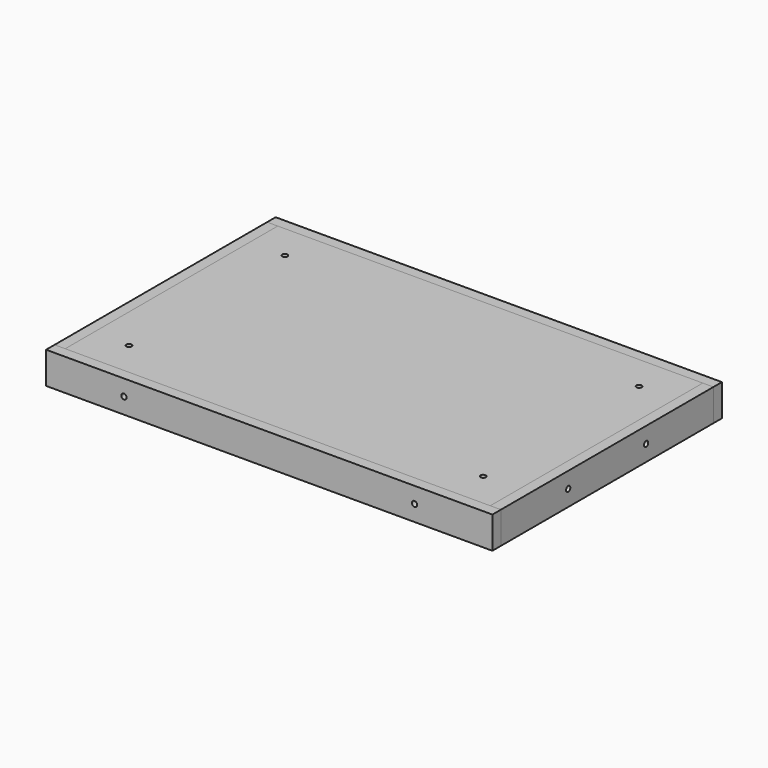
from build123d import *

# Parameters (mm, degrees)
F25_W     = 240
F25_H     = 150
F0_DEPTH  = 6
F1_DEPTH  = 6
F3_DEPTH  = 6
F7_W      = 240
F7_H      = 150
F8_DEPTH  = 6
F10_D     = 8
F11_W     = 252
F11_H     = 18
F12_DEPTH = 6
F14_D     = 3
F17_W     = 150
F17_H     = 18
F18_DEPTH = 6
F20_D     = 3
F24_D     = 3
F24_2_D   = 3
F24_3_D   = 3


with BuildPart() as f0:
    # F25 (on Top) → F0 (new body)
    with BuildSketch(Plane.XY):
        Rectangle(F25_W, F25_H)
    extrude(amount=F0_DEPTH)


with BuildPart() as f1:
    # F1 (new): a face of the model
    f1_faces = [f0.part.faces().sort_by_distance(p)[0] for p in [
        (0, 0, 0),
    ]]
    extrude(f1_faces, amount=F1_DEPTH)

    # F5: F3, F3b, F4_2, F4_1 across plane


with BuildPart() as f3:
    # F2 (on face) → F3 (new body, through all)
    with BuildSketch(Plane.XY):
        Polygon((82, -75), (83.5, -75), (83.5, -69), (84.85, -69), (84.85, -66), (83.5, -66), (83.5, -61), (82, -61), (80.5, -61), (80.5, -66), (79.15, -66), (79.15, -69), (80.5, -69), (80.5, -75), align=None)
    extrude(amount=-F3_DEPTH)


with BuildPart() as f3b:
    # F2 (on face) → F3, piece 2 (new body, through all)
    with BuildSketch(Plane.XY):
        Polygon((114, -29), (120, -29), (120, -27.5), (120, -26), (114, -26), (114, -24.65), (111, -24.65), (111, -26), (106, -26), (106, -27.5), (106, -29), (111, -29), (111, -30.35), (114, -30.35), align=None)
    extrude(amount=-F3_DEPTH)


with BuildPart() as f4_1:
    # F4: instance of F3
    add(f3.part.mirror(Plane.XZ))


with BuildPart() as f4_2:
    # F4: instance of F3b
    add(f3b.part.mirror(Plane.XZ))


with BuildPart() as f1_1:
    add(f1.part)
    add(f3.part.mirror(Plane.YZ), mode=Mode.SUBTRACT)
    add(f3b.part.mirror(Plane.YZ), mode=Mode.SUBTRACT)
    add(f4_2.part.mirror(Plane.YZ), mode=Mode.SUBTRACT)
    add(f4_1.part.mirror(Plane.YZ), mode=Mode.SUBTRACT)

    # F6: cut F3, F3b, F4_2, F4_1
    add(f3.part, mode=Mode.SUBTRACT)
    add(f3b.part, mode=Mode.SUBTRACT)
    add(f4_2.part, mode=Mode.SUBTRACT)
    add(f4_1.part, mode=Mode.SUBTRACT)

    # F24#2 (through all)
    with Locations(Plane(origin=(0, 0, -12), x_dir=(1, 0, 0), z_dir=(0, 0, -1))):
        with Locations((-100, 55), (-100, -55), (100, -55), (100, 55)):
            Hole(F24_2_D / 2)


with BuildPart() as f8:
    # F7 (on face) → F8 (new body)
    with BuildSketch(Plane(origin=(0, 0, -6), x_dir=(1, 0, 0), z_dir=(0, 0, -1))):
        Rectangle(F7_W, F7_H)
    extrude(amount=F8_DEPTH)

    # F10 (through all)
    with Locations(Plane.XY.offset(6)):
        with Locations((82, 0), (0, -62.5), (0, 62.5), (-82, 0)):
            Hole(F10_D / 2)

    # F24#3 (through all)
    with Locations(Plane(origin=(0, 0, -12), x_dir=(1, 0, 0), z_dir=(0, 0, -1))):
        with Locations((-100, 55), (-100, -55), (100, -55), (100, 55)):
            Hole(F24_3_D / 2)


with BuildPart() as f12:
    # F11 (on face) → F12 (new body)
    with BuildSketch(Plane(origin=(0, 75, 0), x_dir=(-1, 0, 0), z_dir=(0, 1, 0))):
        with Locations((0, -3)):
            Rectangle(F11_W, F11_H)
    extrude(amount=F12_DEPTH)

    # F14 (through all)
    with Locations(Plane(origin=(0, 81, 0), x_dir=(-1, 0, 0), z_dir=(0, 1, 0))):
        with Locations((-82, -3.0000000002), (82, -3.0000000002)):
            Hole(F14_D / 2)


with BuildPart() as f16_1:
    # F16: copy of F12
    add(f12.part.moved(Location((0, -156, 0))))


with BuildPart() as f18:
    # F17 (on face) → F18 (new body)
    with BuildSketch(Plane.YZ.offset(120)):
        with Locations((0, -3)):
            Rectangle(F17_W, F17_H)
    extrude(amount=F18_DEPTH)

    # F20 (through all)
    with Locations(Plane.YZ.offset(126)):
        with Locations((-27.5, -3.0000000002), (27.5, -3.0000000002)):
            Hole(F20_D / 2)


with BuildPart() as f22_1:
    # F22: copy of F18
    add(f18.part.moved(Location((-246, 0, 0))))


with BuildPart() as f0_1:
    add(f0.part)

    # F24 (through all)
    with Locations(Plane(origin=(0, 0, -12), x_dir=(1, 0, 0), z_dir=(0, 0, -1))):
        with Locations((-100, 55), (-100, -55), (100, -55), (100, 55)):
            Hole(F24_D / 2)


solid = Compound([f1_1.part, f8.part, f12.part, f16_1.part, f18.part, f22_1.part, f0_1.part])
